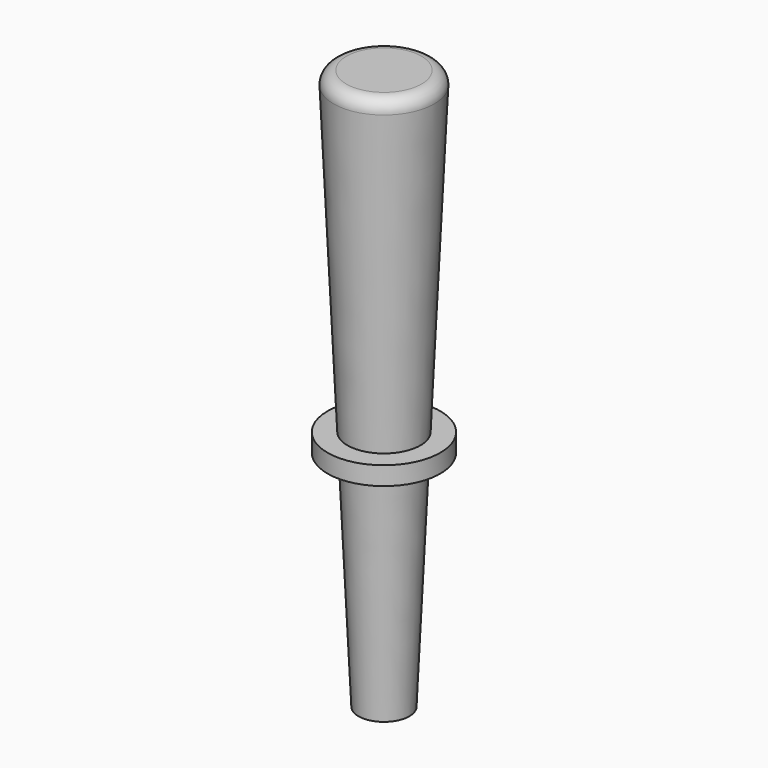
from build123d import *


with BuildPart() as f1:
    # F0 (on Front) → F1 (revolve)
    with BuildSketch(Plane.XZ):
        with BuildLine():
            Line((-10, 0), (-5, 0))
            Line((-5, 0), (-5, 87.784544))
            Line((-5, 87.784544), (-5, 95))
            Line((-5, 95), (-5, 190))
            Line((-5, 190), (0, 190))
            Line((0, 190), (0, 220))
            Line((0, 220), (-14.767565, 220))
            ThreePointArc((-14.767565, 220), (-18.382478, 218.454331), (-19.762407, 214.772962))
            Line((-19.762407, 214.772962), (-14.318182, 95))
            Line((-14.318182, 95), (-22.129804, 95))
            Line((-22.129804, 95), (-22.129804, 87.784544))
            Line((-22.129804, 87.784544), (-13.990207, 87.784544))
            Line((-13.990207, 87.784544), (-10, 0))
        make_face()
    revolve(axis=Axis((0, 0, 135.638863), (0, 0, 1)))


solid = f1.part
